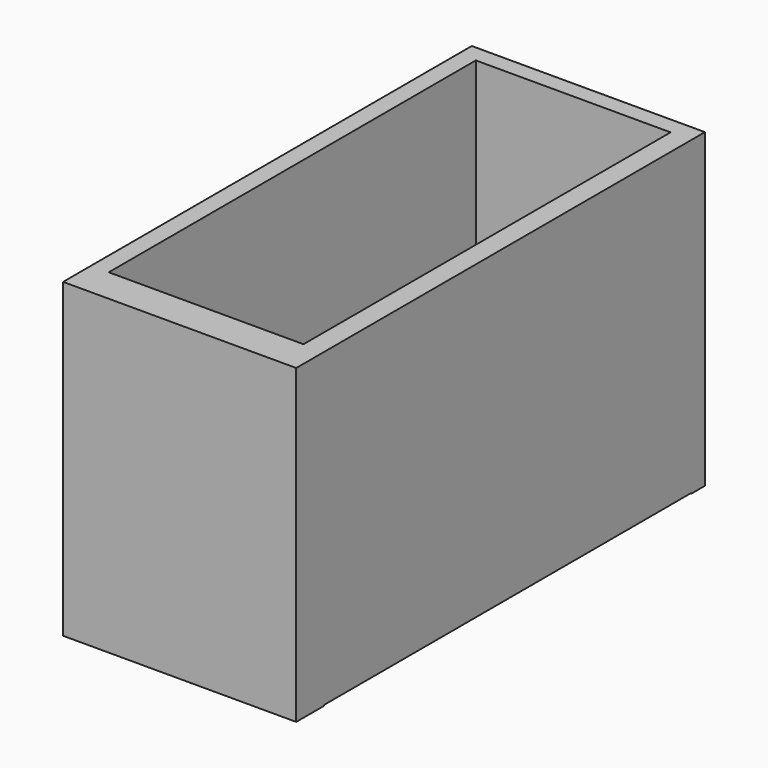
from build123d import *

# Parameters (mm, degrees)
F0_W     = 169.4771945477
F0_H     = 226.4695465565
F1_DEPTH = 25.4
F3_W     = 345.577955246
F3_H     = 225.8900702
F4_DEPTH = 12.8757357597
F2_W     = 345.919251442
F2_H     = 225.8651852608
F5_DEPTH = 15.0449182838
F7_DEPTH = 12.402491644


with BuildPart() as f1:
    # F0 (on Front) → F1 (new body)
    with BuildSketch(Plane.XZ):
        Rectangle(F0_W, F0_H)
    extrude(amount=F1_DEPTH)

    # F3 (on face) → F4 (join)
    with BuildSketch(Plane(origin=(-84.7385972738, 0, 0), x_dir=(0, -1, 0), z_dir=(-1, 0, 0))):
        with Locations((-172.788977623, 0.2897381783)):
            Rectangle(F3_W, F3_H)
    extrude(amount=-F4_DEPTH)

    # F2 (on face) → F5 (join)
    with BuildSketch(Plane.YZ.offset(84.7385972738)):
        with Locations((172.959625721, 0.3021806479)):
            Rectangle(F2_W, F2_H)
    extrude(amount=-F5_DEPTH)

    # F6 (on face) → F7 (join)
    with BuildSketch(Plane(origin=(0, 345.919251442, 0), x_dir=(-1, 0, 0), z_dir=(0, 1, 0))):
        Polygon((84.5447480679, 113.2347732782), (-69.69367899, 113.2347732782), (-69.69367899, -112.6304119825), (-84.7385972738, -112.6304119825), (-84.7385972738, -113.1013929844), (84.5447480679, -113.1013929844), align=None)
    extrude(amount=-F7_DEPTH)


solid = f1.part
